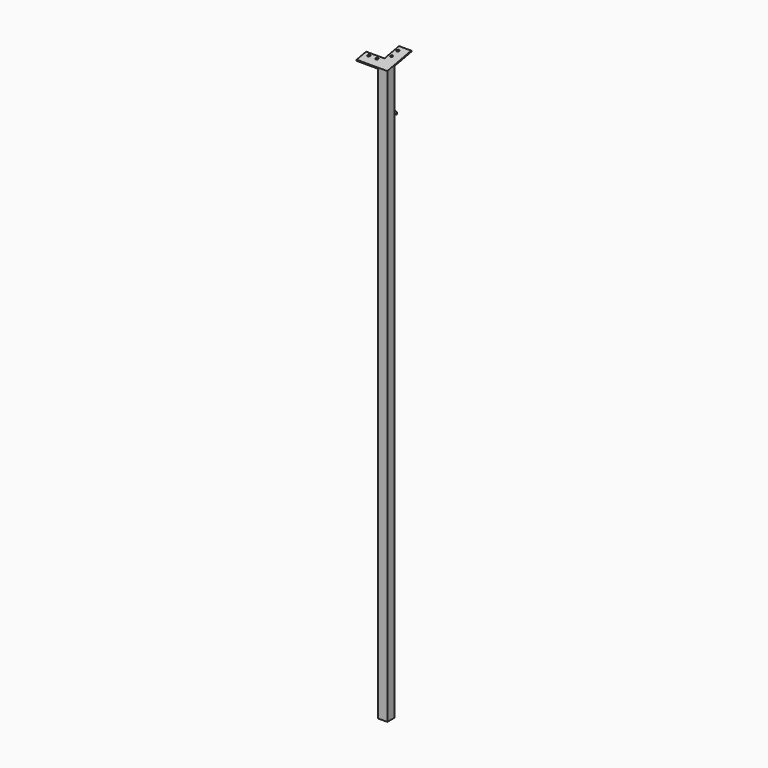
from build123d import *

# Parameters (mm, degrees)
F0_W          = 45
F0_H          = 45
F1_DEPTH      = 2795
F3_W          = 45
F3_H          = 60
F3_W_2        = 90
F3_W_3        = 15
F4_DEPTH      = 5
F6_DEPTH      = 45
F8_W          = 2.7798460424
F8_H          = 5.7082939148
F9_DEPTH      = 156.8
F9_DEPTH_BACK = 105
F14_DEPTH     = 5
F15_DEPTH     = 30


with BuildPart() as f1:
    # F0 (on Top) → F1 (new body)
    with BuildSketch(Plane.XY):
        Rectangle(F0_W, F0_H)
    extrude(amount=F1_DEPTH)


with BuildPart() as f4:
    # F3 (on face) → F4 (new body)
    with BuildSketch(Plane(origin=(0, -524.3318959349, 2697.453760933), x_dir=(1, 0, 0), z_dir=(0, -0.1908089954, 0.9816271834))):
        with Locations((-15, 541.2245304499)):
            Rectangle(F3_W, F3_H)
        with Locations((-82.5, 541.2245304499)):
            Rectangle(F3_W_2, F3_H)
        with Locations((15, 541.2245304499)):
            Rectangle(F3_W_3, F3_H)
        Polygon((-37.5, 661.2245304499), (-37.5, 571.2245304499), (7.5, 571.2245304499), (22.5, 571.2245304499), (22.5, 661.2245304499), align=None)
    extrude(amount=F4_DEPTH)


with BuildPart() as f6:
    # F5 (on face) → F6 (new body)
    with BuildSketch(Plane.YZ.offset(22.5)):
        Polygon((-22.5, 2795), (22.5, 2795), (22.5, 2803.7471139112), align=None)
    extrude(amount=-F6_DEPTH)


with BuildPart() as f1_1:
    add(f1.part)

    # F7: union F6, F4
    add(f6.part)
    add(f4.part)

    # F8 (on face) → F9 (cut, two sides)
    with BuildSketch(Plane(origin=(-22.5, 0, 0), x_dir=(0, -1, 0), z_dir=(-1, 0, 0))) as f9_sk:
        with Locations((23.8899230212, 2797.8541469574)):
            Rectangle(F8_W, F8_H)
    extrude(amount=-F9_DEPTH, mode=Mode.SUBTRACT)
    extrude(f9_sk.sketch, amount=F9_DEPTH_BACK, mode=Mode.SUBTRACT)

    # F13 (on face) → F14 (cut, through all)
    with BuildSketch(Plane(origin=(0, -525.2859409117, 2702.3618968503), x_dir=(1, 0, 0), z_dir=(0, -0.1908089954, 0.9816271834))):
        with BuildLine():
            ThreePointArc((-56.5, 556.2245304499), (-66.7426406871, 560.467171137), (-62.5, 550.2245304499))
            ThreePointArc((-62.5, 550.2245304499), (-58.2573593129, 551.9818897628), (-56.5, 556.2245304499))
        make_face()
        with BuildLine():
            ThreePointArc((-96.5, 556.2245304499), (-102.5, 562.2245304499), (-108.5, 556.2245304499))
            ThreePointArc((-108.5, 556.2245304499), (-102.5, 550.2245304499), (-96.5, 556.2245304499))
        make_face()
        with BuildLine():
            ThreePointArc((-16.5, 596.2245304499), (-26.7426406871, 600.467171137), (-22.5, 590.2245304499))
            ThreePointArc((-22.5, 590.2245304499), (-18.2573593129, 591.9818897628), (-16.5, 596.2245304499))
        make_face()
        with BuildLine():
            ThreePointArc((-16.5, 636.2245304499), (-18.2573593129, 640.467171137), (-22.5, 642.2245304499))
            ThreePointArc((-22.5, 642.2245304499), (-26.7426406871, 631.9818897628), (-16.5, 636.2245304499))
        make_face()
    extrude(amount=-F14_DEPTH, mode=Mode.SUBTRACT)

    # F12 (on offset) → F15 (join)
    with BuildSketch(Plane.XY.offset(2545)):
        with BuildLine():
            Line((0, 27.5), (5, 27.5))
            ThreePointArc((5, 27.5), (0, 32.5), (-5, 27.5))
            Line((-5, 27.5), (0, 27.5))
        make_face()
        with BuildLine():
            Line((5, 22.5), (5, 27.5))
            ThreePointArc((5, 27.5), (3.5355339059, 23.9644660941), (0, 22.5))
            Line((0, 22.5), (5, 22.5))
        make_face()
        with BuildLine():
            ThreePointArc((0, 22.5), (3.5355339059, 23.9644660941), (5, 27.5))
            Line((5, 27.5), (0, 27.5))
            Line((0, 27.5), (0, 22.5))
        make_face()
        with BuildLine():
            Line((0, 27.5), (-5, 27.5))
            ThreePointArc((-5, 27.5), (-3.5355339059, 23.9644660941), (0, 22.5))
            Line((0, 22.5), (0, 27.5))
        make_face()
        with BuildLine():
            ThreePointArc((0, 22.5), (-3.5355339059, 23.9644660941), (-5, 27.5))
            Line((-5, 27.5), (-5, 22.5))
            Line((-5, 22.5), (0, 22.5))
        make_face()
    extrude(amount=F15_DEPTH)

    # F17: sweep along a path in F11
    with BuildLine(Plane.YZ) as f17_path:
        ThreePointArc((57.5, 2575), (42.5, 2590), (27.5, 2575))
    # F16 (on face) → F17 (sweep)
    with BuildSketch(Plane.XY.offset(2575)):
        with BuildLine():
            ThreePointArc((0, 22.5), (3.5355339059, 23.9644660941), (5, 27.5))
            ThreePointArc((5, 27.5), (0, 32.5), (-5, 27.5))
            ThreePointArc((-5, 27.5), (-3.5355339059, 23.9644660941), (0, 22.5))
        make_face()
    sweep(path=f17_path.line)


solid = f1_1.part
